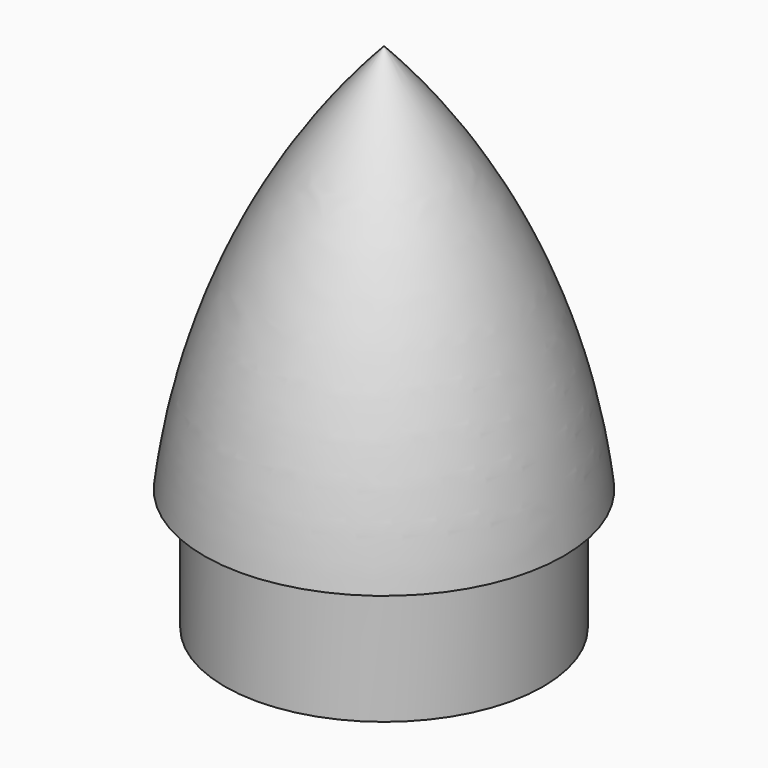
from build123d import *


with BuildPart() as f1:
    # F0 (on Front) → F1 (revolve)
    with BuildSketch(Plane.XZ):
        with BuildLine():
            Line((20, 19), (20, 0))
            Line((20, 0), (22.100001, 0))
            Line((22.100001, 0), (22.100001, 16.899999))
            Line((22.100001, 16.899999), (24.970786, 16.899999))
            ThreePointArc((24.970786, 16.899999), (16.849712, 46.019526), (0, 71.119045))
            Line((0, 71.119045), (0, 68))
            ThreePointArc((0, 68), (14.926953, 45.174321), (22.590533, 19))
            Line((22.590533, 19), (20, 19))
        make_face()
    revolve(axis=Axis((0, 0, 34), (0, 0, 1)))


solid = f1.part
